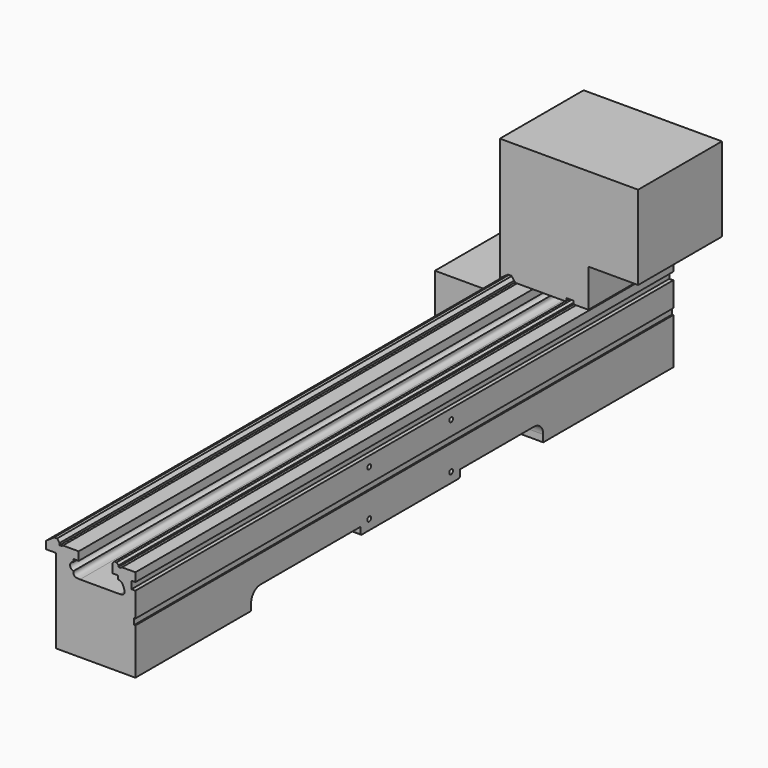
from build123d import *

# Parameters (mm, degrees)
F1_DEPTH  = 1162
F3_DEPTH  = 136.9153879439
F5_DEPTH  = 25
F4_R      = 4
F6_DEPTH  = 20
F8_DEPTH  = 218
F9_DEPTH  = 49
F11_DEPTH = 181


with BuildPart() as f1:
    # F0 (on Front) → F1 (new body)
    with BuildSketch(Plane.XZ):
        with BuildLine():
            Line((98, -15), (98, 0))
            Line((98, 0), (74.8, 0))
            Line((74.8, 0), (72.95, -1.5))
            Line((72.95, -1.5), (68.7, -1.5))
            Line((68.7, -1.5), (68.7, 1))
            Line((68.7, 1), (65.5631225717, 4.5))
            Line((65.5631225717, 4.5), (61.7131225717, 4.5))
            Line((61.7131225717, 4.5), (58, 0.6549490182))
            Line((58, 0.6549490182), (58, -14.5))
            Line((58, -14.5), (68, -14.5))
            Line((68, -14.5), (68, -20.75))
            add(Edge.make_bspline(
                [(68, -20.75), (69.7820021938, -21.0035260588), (73.4163773468, -21.5186921977), (76.6094071106, -26.4212132096), (79.0240865965, -32.5288945488), (79.1651134516, -37.3427034629), (77.9902378945, -40.2318102544), (74.2121223578, -41.5777983629), (72.5005865097, -41.8714731932), (71.2516382337, -42)],
                knots=[0, 0, 0, 0, 0.1544028345, 0.3136194875, 0.4894601632, 0.6362516526, 0.7501048386, 0.8792903413, 1, 1, 1, 1], degree=3))
            Line((71.2516382337, -42), (2.2936949972, -42))
            add(Edge.make_bspline(
                [(-9, -32.8624588123), (-9.1921132317, -34.4261774169), (-9.5130067032, -37.3021134827), (-7.0322735848, -41.0080368508), (-2.7715139126, -41.668724359), (0.006287842, -41.9485204029), (1.3987936545, -41.956756264), (2.2936949972, -42)],
                knots=[0, 0, 0, 0, 0.225977562, 0.4398697973, 0.6588323509, 0.8370166765, 1, 1, 1, 1], degree=3))
            ThreePointArc((-9, -32.8624588123), (-15.0211951577, -25.9312294062), (-9, -19))
            Line((-9, -19), (-9, -14.5))
            Line((-9, -14.5), (0, -14.5))
            Line((0, -14.5), (0, 0))
            Line((0, 0), (-27.25, 0))
            Line((-27.25, 0), (-29, -1.5))
            Line((-29, -1.5), (-33, -1.5))
            Line((-33, -1.5), (-33, 2))
            Line((-33, 2), (-37.4052427373, 7.4400217302))
            Line((-37.4052427373, 7.4400217302), (-42.4052427373, 7.4400217302))
            Line((-42.4052427373, 7.4400217302), (-56.4153879439, -2.1888842975))
            Line((-56.4153879439, -2.1888842975), (-56.4153879439, -15.1888842975))
            Line((-56.4153879439, -15.1888842975), (-38.9153879439, -15.1888842975))
            Line((-38.9153879439, -15.1888842975), (-38.9153879439, -97.1870198846))
            Line((-38.9153879439, -97.1870198846), (-38.9153879439, -160.45))
            Line((-38.9153879439, -160.45), (98, -160.45))
            Line((98, -160.45), (98, -80.95))
            Line((98, -80.95), (95.75, -80.95))
            Line((95.75, -80.95), (95.75, -70.45))
            Line((95.75, -70.45), (98, -70.45))
            Line((98, -70.45), (98, -28))
            Line((98, -28), (91.19, -28))
            Line((91.19, -28), (91.19, -15))
            Line((91.19, -15), (98, -15))
        make_face()
    extrude(amount=F1_DEPTH)

    # F2 (on face) → F3 (cut, through all)
    with BuildSketch(Plane(origin=(-38.9153879439, 0, 0), x_dir=(0, -1, 0), z_dir=(-1, 0, 0))):
        with BuildLine():
            Line((281, -160.45), (912, -160.45))
            Line((912, -160.45), (912, -148.45))
            ThreePointArc((912, -148.45), (906.1421356237, -134.3078643763), (892, -128.45))
            Line((892, -128.45), (301, -128.45))
            ThreePointArc((301, -128.45), (286.8578643763, -134.3078643763), (281, -148.45))
            Line((281, -148.45), (281, -160.45))
        make_face()
    extrude(amount=-F3_DEPTH, mode=Mode.SUBTRACT)

    # F4 (on face) → F5 (join)
    with BuildSketch(Plane.YZ.offset(98)):
        with BuildLine():
            Line((-673, -141.45), (-657, -141.45))
            Line((-657, -141.45), (-480, -141.45))
            Line((-480, -141.45), (-464, -141.45))
            ThreePointArc((-464, -141.45), (-461.8786796564, -140.5713203436), (-461, -138.45))
            Line((-461, -138.45), (-461, -128.45))
            Line((-461, -128.45), (-676, -128.45))
            Line((-676, -128.45), (-676, -138.45))
            ThreePointArc((-676, -138.45), (-675.1213203436, -140.5713203436), (-673, -141.45))
        make_face()
    extrude(amount=-F5_DEPTH)

    # F4 (on face) → F6 (cut)
    with BuildSketch(Plane.YZ.offset(98)):
        with Locations((-657, -45)):
            Circle(F4_R)
        with Locations((-480, -45)):
            Circle(F4_R)
        with Locations((-480, -124.225)):
            Circle(F4_R)
        with Locations((-657, -124.225)):
            Circle(F4_R)
    extrude(amount=-F6_DEPTH, mode=Mode.SUBTRACT)


with BuildPart() as f8:
    # F7 (on face) → F8 (new body)
    with BuildSketch(Plane(origin=(0, 0, 0), x_dir=(-1, 0, 0), z_dir=(0, 1, 0))):
        with BuildLine():
            Line((56.4153879439, -8.6888842975), (56.4153879439, -15.1888842975))
            Line((56.4153879439, -15.1888842975), (38.9153879439, -15.1888842975))
            Line((38.9153879439, -15.1888842975), (38.9153879439, -147.219017148))
            Line((38.9153879439, -147.219017148), (118.0153879439, -148.7663507282))
            Line((118.0153879439, -148.7663507282), (118.0153879439, -32.1888842975))
            ThreePointArc((118.0153879439, -32.1888842975), (107.9460657445, -17.5966924168), (91.4153879439, -11.1888842975))
            Line((91.4153879439, -11.1888842975), (56.4153879439, -8.6888842975))
        make_face()
        Polygon((56.4153879439, -2.1888842975), (56.4153879439, -8.6888842975), (91.4153879439, -11.1888842975), (91.4153879439, -2.1888842975), align=None)
        with BuildLine():
            Line((91.4153879439, -2.1888842975), (91.4153879439, -11.1888842975))
            ThreePointArc((91.4153879439, -11.1888842975), (107.9460657445, -17.5966924168), (118.0153879439, -32.1888842975))
            Line((118.0153879439, -32.1888842975), (118.0153879439, -2.1888842975))
            Line((118.0153879439, -2.1888842975), (91.4153879439, -2.1888842975))
        make_face()
        Polygon((118.0153879439, -32.1888842975), (118.0153879439, -148.7663507282), (139.6153879439, -149.1888842975), (139.6153879439, -2.1888842975), (118.0153879439, -2.1888842975), align=None)
    extrude(amount=-F8_DEPTH)

    # F7 (on face) → F9 (join)
    with BuildSketch(Plane(origin=(0, 0, 0), x_dir=(-1, 0, 0), z_dir=(0, 1, 0))):
        Polygon((118.0153879439, -32.1888842975), (118.0153879439, -148.7663507282), (139.6153879439, -149.1888842975), (139.6153879439, -2.1888842975), (118.0153879439, -2.1888842975), align=None)
        with BuildLine():
            Line((91.4153879439, -2.1888842975), (91.4153879439, -11.1888842975))
            ThreePointArc((91.4153879439, -11.1888842975), (107.9460657445, -17.5966924168), (118.0153879439, -32.1888842975))
            Line((118.0153879439, -32.1888842975), (118.0153879439, -2.1888842975))
            Line((118.0153879439, -2.1888842975), (91.4153879439, -2.1888842975))
        make_face()
        Polygon((56.4153879439, -2.1888842975), (56.4153879439, -8.6888842975), (91.4153879439, -11.1888842975), (91.4153879439, -2.1888842975), align=None)
    extrude(amount=F9_DEPTH)


with BuildPart() as f11:
    # F10 (on face) → F11 (new body)
    with BuildSketch(Plane(origin=(0, 0, 0), x_dir=(-1, 0, 0), z_dir=(0, 1, 0))):
        Polygon((-58, 0), (0, 0), (27.25, 0), (30.0936723677, 0), (36.9282672047, 8.4400217302), (42.7157509908, 8.4400217302), (56.9817941808, -1.3647581089), (56.9817941808, 210.6352418911), (-182.0182058192, 210.6352418911), (-182.0182058192, 65.6352418911), (-96.0182058192, 65.6352418911), (-96.0182058192, 0), (-74.8, 0), (-70.0774118304, 0), (-70.0774118304, 5.5), (-68.7, 5.5), (-58, 5.5), (-58, 0.6549490182), align=None)
    extrude(amount=-F11_DEPTH)


solid = Compound([f1.part, f8.part, f11.part])
